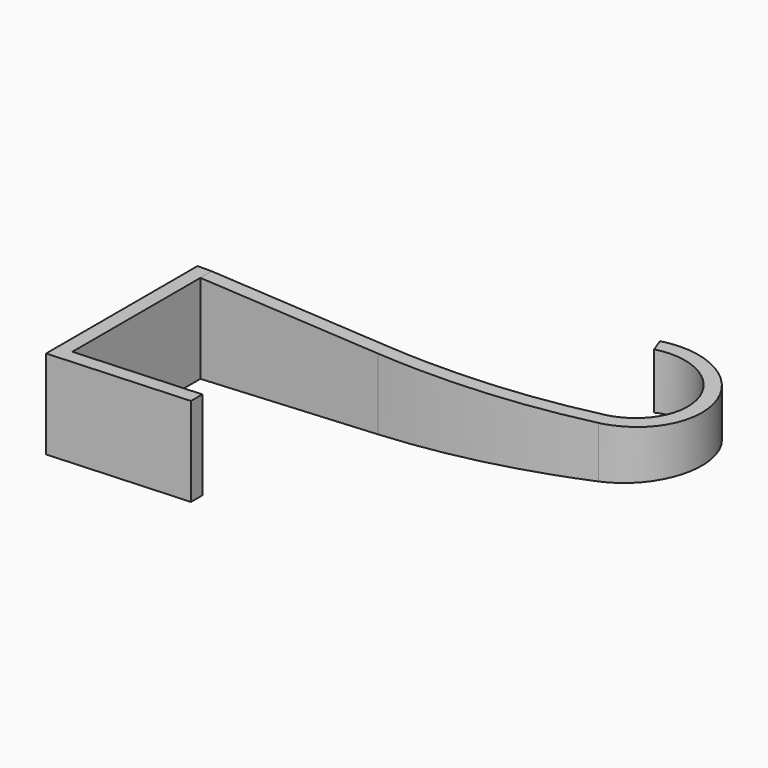
from build123d import *

# Parameters (mm, degrees)
F1_DEPTH = 25
F3_DEPTH = 47.65312


with BuildPart() as f1:
    # F0 (on Top) → F1 (new body)
    with BuildSketch(Plane.XY):
        with BuildLine():
            Line((0, -4.006547), (0, 0))
            Line((0, 0), (-34.94281, -2))
            Line((-34.94281, -2), (-34.94281, 43))
            Line((-34.94281, 43), (15.05719, 43))
            ThreePointArc((15.05719, 43), (42.892009, 45.165181), (70.05719, 51.608635))
            ThreePointArc((70.05719, 51.608635), (82.868261, 77.12908), (57.105676, 89.445972))
            Line((57.105676, 89.445972), (58.473756, 85.687202))
            ThreePointArc((58.473756, 85.687202), (79.083825, 75.833688), (68.834967, 55.417332))
            ThreePointArc((68.834967, 55.417332), (42.273457, 49.117066), (15.05719, 47))
            Line((15.05719, 47), (-38.94281, 47))
            Line((-38.94281, 47), (-38.94281, -6.235492))
            Line((-38.94281, -6.235492), (0, -4.006547))
        make_face()
    extrude(amount=F1_DEPTH)

    # F2 (on face) → F3 (cut, through all)
    with BuildSketch(Plane.XZ.offset(-43)):
        Polygon((15.05719, 25), (15.05719, 22.5), (85.05719, 19), (85.05719, 25), align=None)
        Polygon((15.05719, 25), (-34.94281, 25), (15.05719, 22.5), align=None)
        Polygon((15.05719, 2.5), (-34.94281, 0), (15.05719, 0), align=None)
        Polygon((85.05719, 6), (15.05719, 2.5), (15.05719, 0), (85.05719, 0), align=None)
    extrude(amount=-F3_DEPTH, mode=Mode.SUBTRACT)


solid = f1.part
